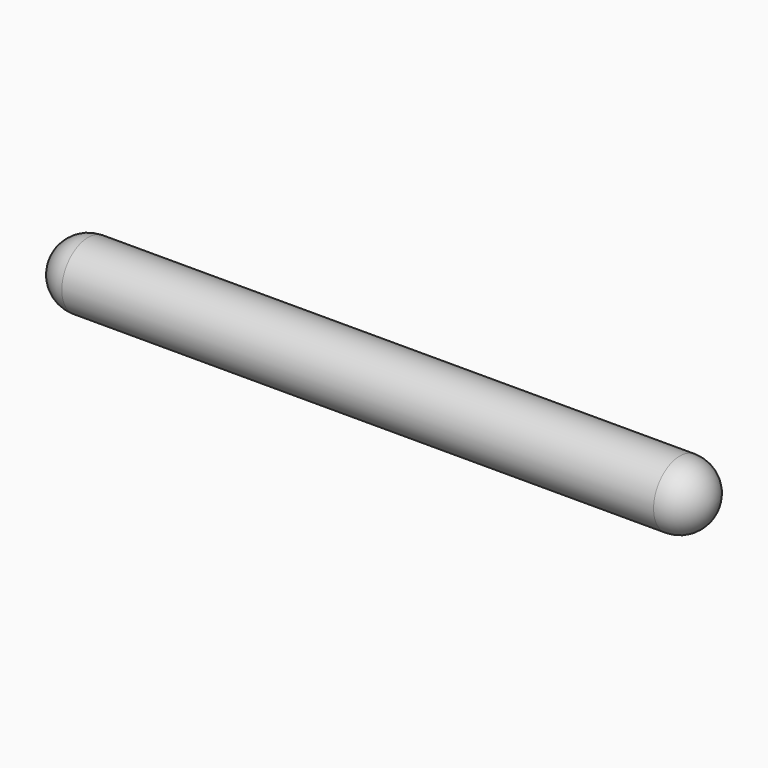
from build123d import *

# Parameters (mm, degrees)
F0_R     = 2.5
F1_DEPTH = 50
F2_R     = 2.5
F3_R     = 2.5


with BuildPart() as f1:
    # F0 (on Right) → F1 (new body)
    with BuildSketch(Plane.YZ):
        Circle(F0_R)
    extrude(amount=F1_DEPTH)

    # F2
    f2_edges = [f1.edges().sort_by_distance(p)[0] for p in [
        (50, -2.5, 0),
    ]]
    fillet(f2_edges, radius=F2_R)

    # F3
    f3_edges = [f1.edges().sort_by_distance(p)[0] for p in [
        (0, -2.5, 0),
    ]]
    fillet(f3_edges, radius=F3_R)


solid = f1.part
